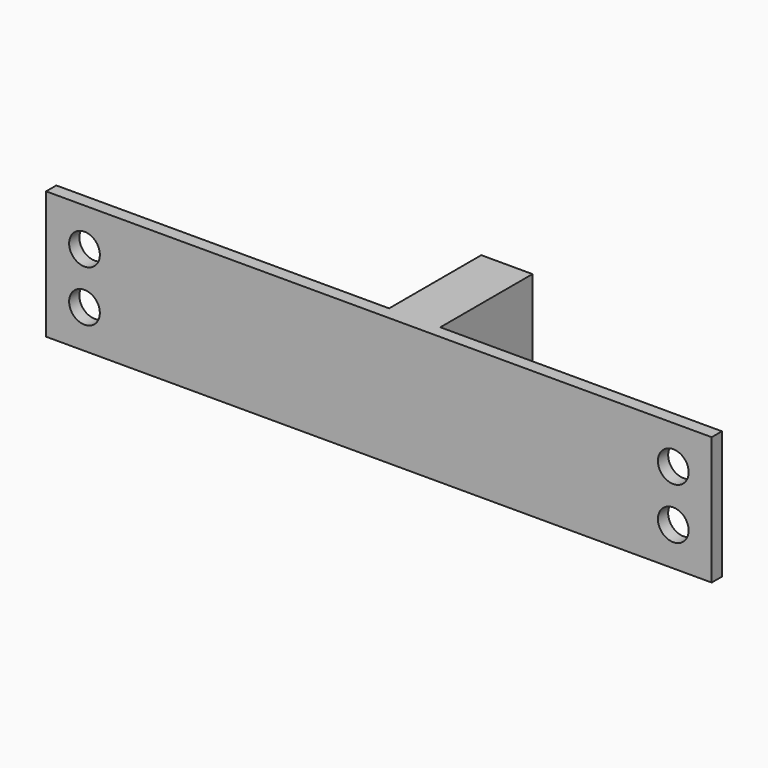
from build123d import *

# Parameters (mm, degrees)
F0_W     = 260
F0_H     = 50
F1_DEPTH = 5
F2_W     = 20
F2_H     = 50
F3_DEPTH = 45
F4_R     = 6
F5_DEPTH = 5


with BuildPart() as f1:
    # F0 (on Front) → F1 (new body)
    with BuildSketch(Plane.XZ):
        with Locations((7.377451, -32.76636)):
            Rectangle(F0_W, F0_H)
    extrude(amount=F1_DEPTH)

    # F2 (on face) → F3 (join)
    with BuildSketch(Plane(origin=(0, 0, 0), x_dir=(-1, 0, 0), z_dir=(0, 1, 0))):
        with Locations((-17.377451, -32.76636)):
            Rectangle(F2_W, F2_H)
    extrude(amount=F3_DEPTH)

    # F4 (on Front) → F5 (cut, through all)
    with BuildSketch(Plane.XZ):
        with Locations((122.377451, -42.76636)):
            Circle(F4_R)
        with Locations((122.377451, -22.76636)):
            Circle(F4_R)
        with Locations((-107.622549, -42.76636)):
            Circle(F4_R)
        with Locations((-107.622549, -22.76636)):
            Circle(F4_R)
    extrude(amount=F5_DEPTH, mode=Mode.SUBTRACT)


solid = f1.part
